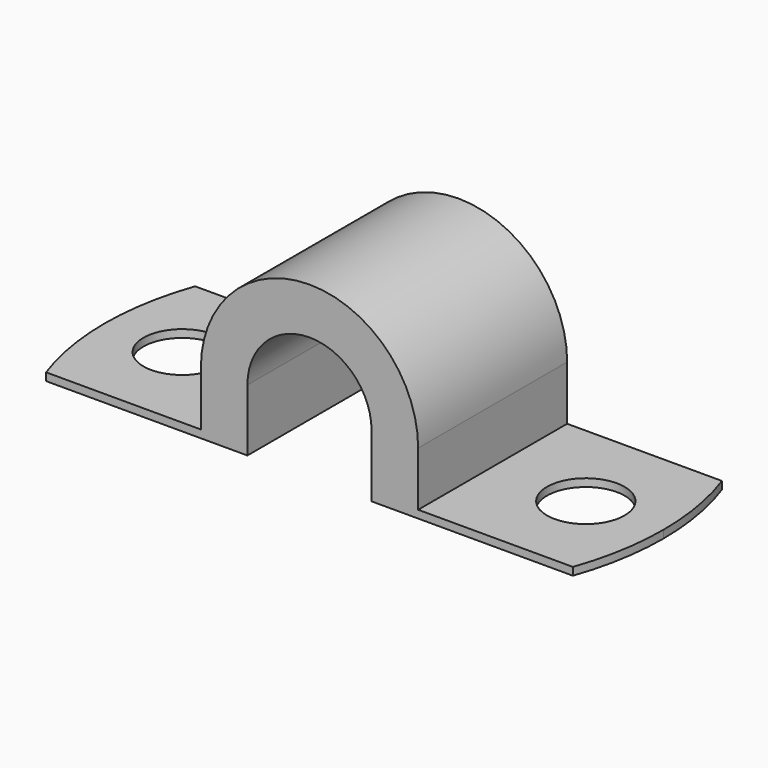
from build123d import *

# Parameters (mm, degrees)
F1_DEPTH = 12
F2_R     = 2.5
F3_DEPTH = 25


with BuildPart() as f1:
    # F0 (on Front) → F1 (new body)
    with BuildSketch(Plane.XZ):
        with BuildLine():
            ThreePointArc((-4, 4), (0, 8), (4, 4))
            Line((4, 4), (4, 0))
            Line((4, 0), (18, 0))
            Line((18, 0), (18, 0.5))
            Line((18, 0.5), (7, 0.5))
            Line((7, 0.5), (7, 4))
            ThreePointArc((7, 4), (0, 11), (-7, 4))
            Line((-7, 4), (-7, 0.5))
            Line((-7, 0.5), (-18, 0.5))
            Line((-18, 0.5), (-18, 0))
            Line((-18, 0), (-4, 0))
            Line((-4, 0), (-4, 4))
        make_face()
    extrude(amount=F1_DEPTH)

    # F2 (on face) → F3 (cut)
    with BuildSketch(Plane(origin=(0, 0, 0), x_dir=(1, 0, 0), z_dir=(0, 0, -1))):
        with Locations((-13, 6)):
            Circle(F2_R)
        with Locations((13, 6)):
            Circle(F2_R)
        with BuildLine():
            ThreePointArc((-16.970563, 0), (-17.740774, 2.956164), (-18, 6))
            Line((-18, 6), (-18, 0))
            Line((-18, 0), (-16.970563, 0))
        make_face()
        with BuildLine():
            ThreePointArc((-18, 6), (-17.740774, 9.043836), (-16.970563, 12))
            Line((-16.970563, 12), (-18, 12))
            Line((-18, 12), (-18, 6))
        make_face()
        with BuildLine():
            ThreePointArc((16.970563, 12), (17.740774, 9.043836), (18, 6))
            Line((18, 6), (18, 12))
            Line((18, 12), (16.970563, 12))
        make_face()
        with BuildLine():
            Line((16.970563, 0), (18, 0))
            Line((18, 0), (18, 6))
            ThreePointArc((18, 6), (17.740774, 2.956164), (16.970563, 0))
        make_face()
    extrude(amount=-F3_DEPTH, mode=Mode.SUBTRACT)


solid = f1.part
